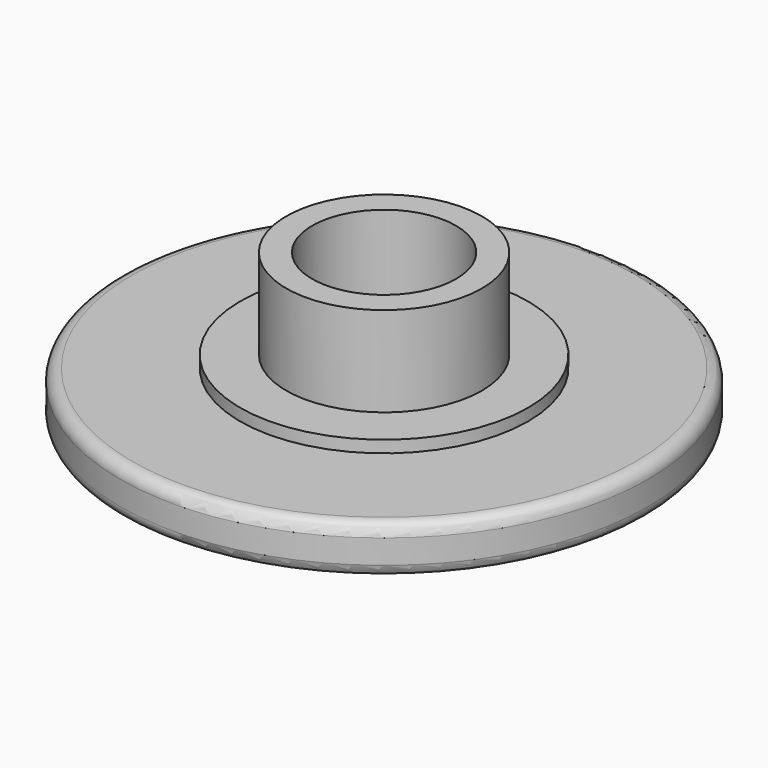
from build123d import *

# Parameters (mm, degrees)
F0_R     = 11
F1_DEPTH = 2
F2_R     = 6
F3_DEPTH = 0.5
F4_R     = 4.075
F5_DEPTH = 3.75
F6_R     = 3
F7_DEPTH = 5.08
F8_R     = 0.5


with BuildPart() as f1:
    # F0 (on Top) → F1 (new body)
    with BuildSketch(Plane.XY):
        Circle(F0_R)
    extrude(amount=F1_DEPTH)

    # F2 (on face) → F3 (join)
    with BuildSketch(Plane.XY.offset(2)):
        Circle(F2_R)
    extrude(amount=F3_DEPTH)

    # F4 (on face) → F5 (join)
    with BuildSketch(Plane.XY.offset(2.5)):
        Circle(F4_R)
    extrude(amount=F5_DEPTH)

    # F6 (on face) → F7 (cut)
    with BuildSketch(Plane.XY.offset(6.25)):
        Circle(F6_R)
    extrude(amount=-F7_DEPTH, mode=Mode.SUBTRACT)

    # F8
    f8_edges = [f1.edges().sort_by_distance(p)[0] for p in [
        (-11, 0, 2),
        (-11, 0, 0),
    ]]
    fillet(f8_edges, radius=F8_R)


solid = f1.part
